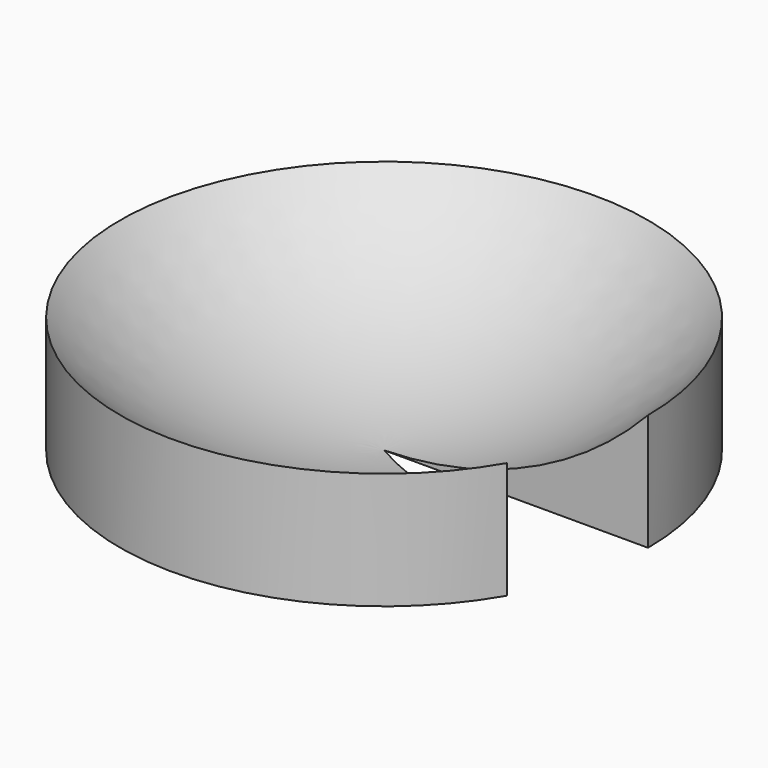
from build123d import *

# Parameters (mm, degrees)
F1_ANGLE = 330


with BuildPart() as f1:
    # F0 (on Front) → F1 (revolve)
    with BuildSketch(Plane.XZ):
        with BuildLine():
            ThreePointArc((45.094121, 19.948533), (24.550708, 5.444975), (0, 0))
            Line((0, 0), (45.094121, 0))
            Line((45.094121, 0), (45.094121, 19.948533))
        make_face()
    revolve(axis=Axis((0, 0, 10.695587), (0, 0, 1)), revolution_arc=F1_ANGLE)


solid = f1.part
